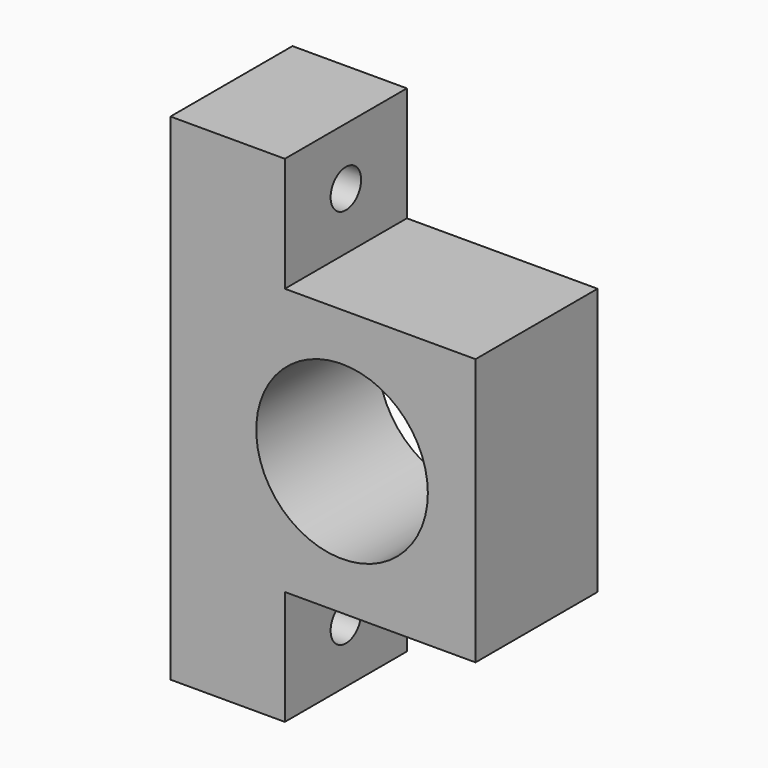
from build123d import *

# Parameters (mm, degrees)
F0_R     = 22.5
F0_W     = 30
F0_H     = 30
F1_DEPTH = 40
F2_R     = 5
F3_DEPTH = 30.001


with BuildPart() as f1:
    # F0 (on Front) → F1 (new body)
    with BuildSketch(Plane.XZ):
        Polygon((0, 70), (0, 0), (30, 0), (80, 0), (80, 70), (30, 70), align=None)
        with Locations((45, 35)):
            Circle(F0_R, mode=Mode.SUBTRACT)
        with Locations((15, -15)):
            Rectangle(F0_W, F0_H)
        with Locations((15, 85)):
            Rectangle(F0_W, F0_H)
    extrude(amount=F1_DEPTH)

    # F2 (on face) → F3 (cut, through all)
    with BuildSketch(Plane.YZ.offset(30)):
        with Locations((-20, 85)):
            Circle(F2_R)
        with Locations((-20, -15)):
            Circle(F2_R)
    extrude(amount=-F3_DEPTH, mode=Mode.SUBTRACT)


solid = f1.part
